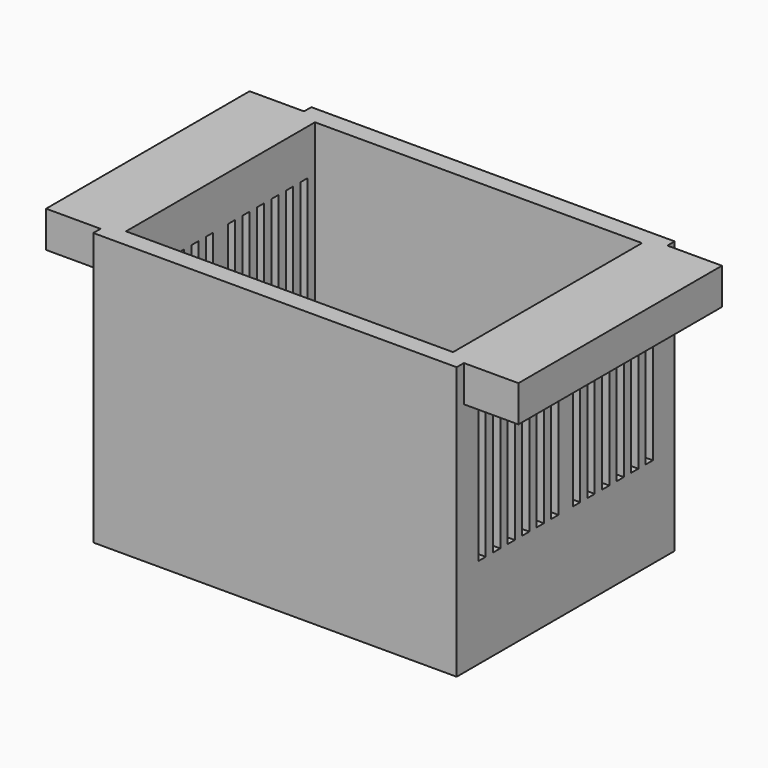
from build123d import *

# Parameters (mm, degrees)
F0_W      = 91.44
F0_H      = 66.04
F0_W_2    = 86.36
F0_H_2    = 60.96
F1_DEPTH  = 25.4
F0_W_3    = 101.6
F0_H_3    = 76.2
F2_DEPTH  = 76.2
F3_W      = 2.54
F3_H      = 38.1
F4_DEPTH  = 5.08
F5_DEPTH  = 5.08
F6_W      = 2.54
F6_H      = 38.1
F7_DEPTH  = 5.08
F8_W      = 71.12
F8_H      = 10.16
F9_DEPTH  = 15.24
F10_W     = 71.12
F10_H     = 10.16
F11_DEPTH = 15.24
F12_W     = 10.16
F12_H     = 66.04
F13_DEPTH = 7.62


with BuildPart() as f1:
    # F0 (on Top) → F1 (new body)
    with BuildSketch(Plane.XY):
        Rectangle(F0_W, F0_H)
        Rectangle(F0_W_2, F0_H_2, mode=Mode.SUBTRACT)
    extrude(amount=F1_DEPTH)

    # F0 (on Top) → F2 (join)
    with BuildSketch(Plane.XY):
        Rectangle(F0_W_3, F0_H_3)
        Rectangle(F0_W, F0_H, mode=Mode.SUBTRACT)
    extrude(amount=F2_DEPTH)

    # F3 (on face) → F4 (cut)
    with BuildSketch(Plane.YZ.offset(50.8)):
        with Locations((-29.21, 44.45)):
            Rectangle(F3_W, F3_H)
        with Locations((-24.13, 44.45)):
            Rectangle(F3_W, F3_H)
        with Locations((-19.05, 44.45)):
            Rectangle(F3_W, F3_H)
        with Locations((-13.97, 44.45)):
            Rectangle(F3_W, F3_H)
        with Locations((-8.89, 44.45)):
            Rectangle(F3_W, F3_H)
        with Locations((-3.81, 44.45)):
            Rectangle(F3_W, F3_H)
        with Locations((3.81, 44.45)):
            Rectangle(F3_W, F3_H)
        with Locations((8.89, 44.45)):
            Rectangle(F3_W, F3_H)
        with Locations((13.97, 44.45)):
            Rectangle(F3_W, F3_H)
        with Locations((19.05, 44.45)):
            Rectangle(F3_W, F3_H)
        with Locations((24.13, 44.45)):
            Rectangle(F3_W, F3_H)
        with Locations((29.21, 44.45)):
            Rectangle(F3_W, F3_H)
    extrude(amount=-F4_DEPTH, mode=Mode.SUBTRACT)

    # F0 (on Top) → F5 (join)
    with BuildSketch(Plane.XY):
        Rectangle(F0_W_2, F0_H_2)
    extrude(amount=F5_DEPTH)

    # F6 (on face) → F7 (cut)
    with BuildSketch(Plane(origin=(-50.8, 0, 0), x_dir=(0, -1, 0), z_dir=(-1, 0, 0))):
        with Locations((-3.81, 44.45)):
            Rectangle(F6_W, F6_H)
        with Locations((3.81, 44.45)):
            Rectangle(F6_W, F6_H)
        with Locations((8.89, 44.45)):
            Rectangle(F6_W, F6_H)
        with Locations((13.97, 44.45)):
            Rectangle(F6_W, F6_H)
        with Locations((-8.89, 44.45)):
            Rectangle(F6_W, F6_H)
        with Locations((-13.97, 44.45)):
            Rectangle(F6_W, F6_H)
        with Locations((19.05, 44.45)):
            Rectangle(F6_W, F6_H)
        with Locations((24.13, 44.45)):
            Rectangle(F6_W, F6_H)
        with Locations((29.21, 44.45)):
            Rectangle(F6_W, F6_H)
        with Locations((-19.05, 44.45)):
            Rectangle(F6_W, F6_H)
        with Locations((-24.13, 44.45)):
            Rectangle(F6_W, F6_H)
        with Locations((-29.21, 44.45)):
            Rectangle(F6_W, F6_H)
    extrude(amount=-F7_DEPTH, mode=Mode.SUBTRACT)

    # F8 (on face) → F9 (join)
    with BuildSketch(Plane(origin=(-50.8, 0, 0), x_dir=(0, -1, 0), z_dir=(-1, 0, 0))):
        with Locations((0, 71.12)):
            Rectangle(F8_W, F8_H)
    extrude(amount=F9_DEPTH)

    # F10 (on face) → F11 (join)
    with BuildSketch(Plane.YZ.offset(50.8)):
        with Locations((0, 71.12)):
            Rectangle(F10_W, F10_H)
    extrude(amount=F11_DEPTH)

    # F12 (on face) → F13 (cut)
    with BuildSketch(Plane(origin=(0, 0, 66.04), x_dir=(1, 0, 0), z_dir=(0, 0, -1))):
        with Locations((58.42, 0)):
            Rectangle(F12_W, F12_H)
        with Locations((-58.42, 0)):
            Rectangle(F12_W, F12_H)
    extrude(amount=-F13_DEPTH, mode=Mode.SUBTRACT)


solid = f1.part
